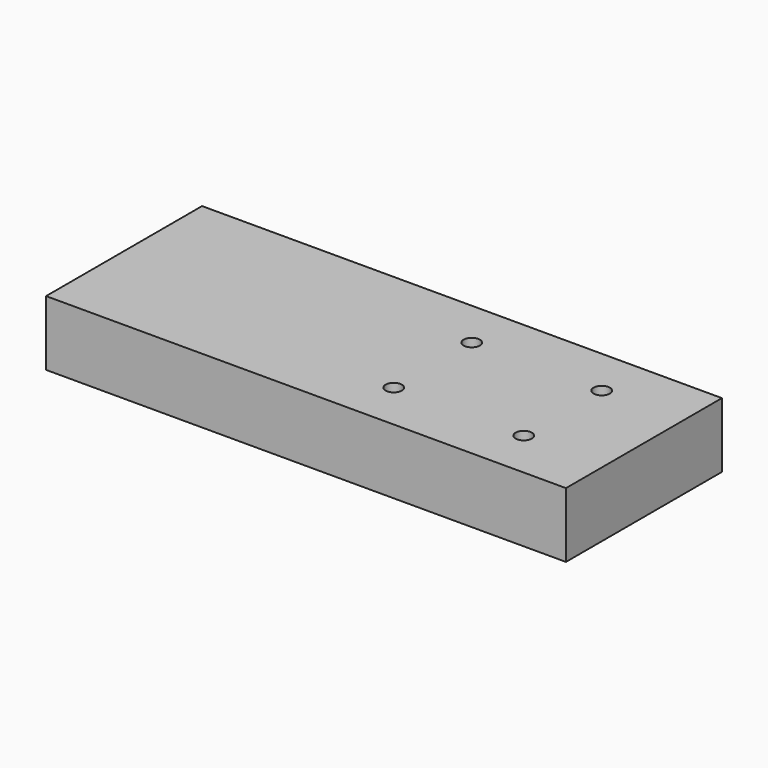
from build123d import *

# Parameters (mm, degrees)
F0_W     = 101.6
F0_H     = 38.1
F1_DEPTH = 12.7
F3_D     = 3.175
F3_DEPTH = 9.525
F3_TIP   = 0.9538662327


with BuildPart() as f1:
    # F0 (on Top) → F1 (new body)
    with BuildSketch(Plane.XY):
        Rectangle(F0_W, F0_H)
    extrude(amount=F1_DEPTH)

    # F3
    with Locations(Plane.XY.offset(12.7)):
        with Locations((9.525, 9.525), (34.925, 9.525), (34.925, -9.525), (9.525, -9.525)):
            Hole(F3_D / 2, depth=F3_DEPTH)
            with Locations((0, 0, -(F3_DEPTH + F3_TIP / 2))):  # 118° drill point
                Cone(0, F3_D / 2, F3_TIP, mode=Mode.SUBTRACT)


solid = f1.part
